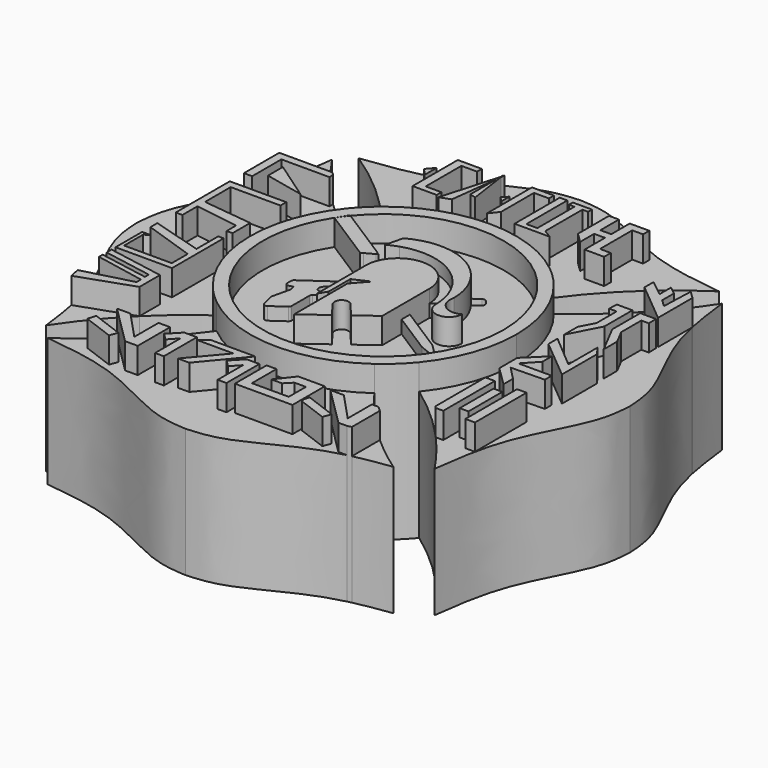
from build123d import *

# Parameters (mm, degrees)
F1_DEPTH = 25.4
F0_W     = 1.7295368016
F0_H     = 8.3469077945
F0_W_2   = 1.8799342215
F0_H_2   = 12.7083547413
F2_DEPTH = 27.94
F3_DEPTH = 30.48


with BuildPart() as f1:
    # F0 (on Top) → F1 (new body)
    with BuildSketch(Plane.XY):
        with BuildLine():
            Line((-9.5434431598, 6.2450544718), (-19.9389753342, 12.8866327357))
            ThreePointArc((-19.9389753342, 12.8866327357), (-6.7178785222, -22.7705544246), (23.7408517253, 0))
            ThreePointArc((23.7408517253, 0), (7.9342600231, 22.3757806239), (-18.437547291, 14.9560987738))
            Line((-18.437547291, 14.9560987738), (-8.1693225853, 8.3958556934))
            Line((-8.1693225853, 8.3958556934), (-7.0434035733, 7.6047051698))
            Line((-7.0434035733, 7.6047051698), (-7.338819981, 7.4440424639))
            Line((-7.338819981, 7.4440424639), (-5.8915200862, 6.5193802761))
            Line((-5.8915200862, 6.5193802761), (-5.6063739329, 6.337203889))
            ThreePointArc((-5.6063739329, 6.337203889), (-5.0978071301, 7.1900943467), (-4.4606007655, 7.951691599))
            Line((-4.4606007655, 7.951691599), (-6.14196317, 11.6369343908))
            ThreePointArc((-6.14196317, 11.6369343908), (-7.2015175666, 11.220879576), (-8.2185240178, 10.709552864))
            Line((-8.2185240178, 10.709552864), (-7.3757171631, 14.1661595553))
            ThreePointArc((-7.3757171631, 14.1661595553), (0.1389586127, 15.6738469109), (7.1075247354, 12.4828346309))
            Line((7.1075247354, 12.4828346309), (8.6497746395, 13.5536975911))
            ThreePointArc((8.6497746395, 13.5536975911), (9.0804497837, 13.6546140229), (9.4635845627, 13.4335417562))
            Line((9.4635845627, 13.4335417562), (10.0592304389, 12.6827814665))
            ThreePointArc((10.0592304389, 12.6827814665), (10.1854985957, 12.2403385238), (9.9619292605, 11.8381990487))
            Line((9.9619292605, 11.8381990487), (8.6400744323, 10.7894523474))
            ThreePointArc((8.6400744323, 10.7894523474), (10.4625836154, 7.3364011169), (11.1228358001, 3.4881327301))
            ThreePointArc((11.1228358001, 3.4881327301), (12.1514474693, 0.3059297611), (15.4842836782, 0.0290534226))
            ThreePointArc((15.4842836782, 0.0290534226), (12.8809521086, -2.5042646054), (10.2800289453, 0.0315260388))
            ThreePointArc((10.2800289453, 0.0315260388), (9.9497055154, 2.7308254028), (9.0397551795, 5.2935038865))
            Line((9.0397551795, 5.2935038865), (6.2511023134, 3.5722714383))
            Line((6.2511023134, 3.5722714383), (6.2511023134, -1.2383925481))
            Line((6.2511023134, -1.2383925481), (15.322001506, -7.0336790136))
            Line((15.322001506, -7.0336790136), (18.4107130058, -10.1001587223))
            Line((18.4107130058, -10.1001587223), (14.3876015009, -8.4962207364))
            Line((14.3876015009, -8.4962207364), (6.2511023134, -3.297910997))
            Line((6.2511023134, -3.297910997), (6.2511023134, -8.0626364797))
            Line((6.2511023134, -8.0626364797), (2.3747377821, -10.9250742877))
            Line((2.3747377821, -10.9250742877), (0, -8.0626364797))
            ThreePointArc((0, -8.0626364797), (-1.929433955, -7.8545272669), (-2.1375431679, -9.7839612218))
            Line((-2.1375431679, -9.7839612218), (0, -12.6786604524))
            Line((0, -12.6786604524), (-4.6690521418, -16.1264454246))
            Line((-4.6690521418, -16.1264454246), (-4.6690521418, -2.9718931764))
            Line((-4.6690521418, -2.9718931764), (-2.1375431679, -0.1181978878))
            Line((-2.1375431679, -0.1181978878), (-5.2554947324, -1.5450455321))
            Line((-5.2554947324, -1.5450455321), (-5.2554947324, -6.8612064933))
            Line((-5.2554947324, -6.8612064933), (-6.2511023134, -8.5651436821))
            Line((-6.2511023134, -8.5651436821), (-6.2511023134, -0.1554940756))
            Line((-6.2511023134, -0.1554940756), (-6.4565095615, -0.2993217791))
            ThreePointArc((-6.4565095615, -0.2993217791), (-6.6782063614, -0.5906114223), (-6.6898507105, -0.9564850842))
            Line((-6.6898507105, -0.9564850842), (-6.3532546104, -2.1378945595))
            ThreePointArc((-6.3532546104, -2.1378945595), (-6.3532532132, -2.467333183), (-6.5268767557, -2.7473058105))
            Line((-6.5268767557, -2.7473058105), (-9.5615380632, -5.5079116557))
            ThreePointArc((-9.5615380632, -5.5079116557), (-9.706817276, -5.7094900403), (-9.7581679001, -5.9526011428))
            Line((-9.7581679001, -5.9526011428), (-9.7581679001, -10.3816536972))
            ThreePointArc((-9.7581679001, -10.3816536972), (-9.8260924812, -10.6592385489), (-10.0145167408, -10.8740952384))
            Line((-10.0145167408, -10.8740952384), (-12.6287511028, -12.7046018453))
            ThreePointArc((-12.6287511028, -12.7046018453), (-13.1802241081, -12.7766817128), (-13.5548146017, -12.365585684))
            Line((-13.5548146017, -12.365585684), (-14.1468444432, -10.1226799809))
            ThreePointArc((-14.1468444432, -10.1226799809), (-14.1666748611, -9.9789061741), (-14.1514706229, -9.8345698165))
            Line((-14.1514706229, -9.8345698165), (-13.3251612392, -6.2401265362))
            ThreePointArc((-13.3251612392, -6.2401265362), (-13.3100853679, -6.0897110613), (-13.3330098084, -5.9402902896))
            Line((-13.3330098084, -5.9402902896), (-13.5587407276, -5.1502324641))
            Line((-13.5587407276, -5.1502324641), (-14.2865060916, -5.3581655283))
            ThreePointArc((-14.2865060916, -5.3581655283), (-14.813673449, -5.260071091), (-15.0528176735, -4.7801356982))
            Line((-15.0528176735, -4.7801356982), (-15.0528176735, -3.89823478))
            ThreePointArc((-15.0528176735, -3.89823478), (-14.9848930924, -3.6206499283), (-14.7964688328, -3.4057932388))
            Line((-14.7964688328, -3.4057932388), (-6.2511023134, 2.5777368149))
            Line((-6.2511023134, 2.5777368149), (-6.2511023134, 3.5722714383))
            ThreePointArc((-6.2511023134, 3.5722714383), (-6.228449268, 4.1039666977), (-6.1606543141, 4.6318083912))
            Line((-6.1606543141, 4.6318083912), (-7.9261528326, 5.7597637848))
            Line((-7.9261528326, 5.7597637848), (-9.0801320579, 6.4970269871))
            Line((-9.0801320579, 6.4970269871), (-9.5434431598, 6.2450544718))
        make_face()
    extrude(amount=F1_DEPTH)


with BuildPart() as f1b:
    # F0 (on Top) → F1, piece 2 (new body)
    with BuildSketch(Plane.XY):
        with BuildLine():
            ThreePointArc((-16.6267062797, 20.2924587669), (0, 26.2341617842), (16.6267062797, 20.2924587669))
            ThreePointArc((16.6267062797, 20.2924587669), (25.2329664201, 30.182800565), (35.5137959123, 38.318593055))
            add(Edge.make_bspline(
                [(35.5137959123, 38.318593055), (30.4620352986, 38.9509589957), (20.4597656889, 40.2030164693), (7.4866494732, 48.2293636919), (2.1728610161, 48.5746910392), (0, 48.7149081634)],
                knots=[0, 0, 0, 0, 0.3760666411, 0.7445958397, 0.9996624927, 0.9996624927, 0.9996624927, 0.9996624927], degree=3))
            add(Edge.make_bspline(
                [(-35.5137959123, 38.318593055), (-30.4620352986, 38.9509589957), (-20.4597656889, 40.2030164693), (-7.4866494732, 48.2293636919), (-2.1728610161, 48.5746910392), (0, 48.7149081634)],
                knots=[0, 0, 0, 0, 0.3760666411, 0.7445958397, 0.9996624927, 0.9996624927, 0.9996624927, 0.9996624927], degree=3))
            ThreePointArc((-35.5137959123, 38.318593055), (-25.2329664201, 30.182800565), (-16.6267062797, 20.2924587669))
        make_face()
        Polygon((-19.3263869733, 34.2127773911), (-18.0286001414, 35.7136428356), (-18.0286001414, 34.2127773911), (-18.0286001414, 32.7141773911), align=None, mode=Mode.SUBTRACT)
        Polygon((-15.4862534255, 39.7773832083), (-12.3972799629, 39.7773832083), (-12.3972799629, 38.6037752032), (-15.4862534255, 38.6037752032), (-15.4862534255, 34.2127773911), (-15.4862534255, 29.8217795789), (-12.3972799629, 29.8217795789), (-12.3972799629, 28.6481715739), (-17.1347092837, 28.6481715739), (-17.1347092837, 34.2127773911), (-17.1347092837, 38.6037752032), (-17.1347092837, 39.7773832083), align=None, mode=Mode.SUBTRACT)
        Polygon((-8.408809687, 39.7450013558), (-8.2768853754, 40.2063913643), (-8.3679740047, 39.4611965301), (-7.2505346718, 31.6950798014), (-8.4751974791, 32.04524516), (-8.4751974791, 38.5840027483), (-9.649637936, 28.9759213881), (-11.7087768862, 28.2037480728), (-8.4751974791, 39.5128177376), (-8.4751974791, 40.2063913643), align=None, mode=Mode.SUBTRACT)
        Polygon((-4.2724665254, 34.2127773911), (-3.2887738198, 35.2003201842), (-3.2887738198, 34.2127773911), (-3.2887738198, 33.2252345979), align=None, mode=Mode.SUBTRACT)
        Polygon((-2.5195907801, 38.5379008949), (-2.5195907801, 39.7773832083), (-1.133499667, 39.7773832083), (1.8175337464, 39.7773832083), (1.8175337464, 38.5379008949), (-1.133499667, 38.5379008949), (-1.133499667, 34.2127773911), (-1.133499667, 30.4379425943), (-2.5195907801, 28.6481715739), (-2.5195907801, 34.2127773911), align=None, mode=Mode.SUBTRACT)
        Polygon((2.9608625919, 29.696483165), (2.9608625919, 39.7773832083), (4.4449735433, 39.7773832083), (4.4449735433, 29.696483165), (6.6135358065, 29.696483165), (6.6135358065, 38.8293154538), (5.534986034, 38.8293154538), (5.534986034, 39.7773832083), (6.6135358065, 39.7773832083), (8.1796292216, 39.7773832083), (9.3080047518, 39.7773832083), (9.3080047518, 38.8293154538), (8.1796292216, 38.8293154538), (8.1796292216, 29.696483165), (9.8721999675, 28.6481715739), (8.1796292216, 28.6481715739), (6.6135358065, 28.6481715739), (4.4449735433, 28.6481715739), (2.9608625919, 28.6481715739), align=None, mode=Mode.SUBTRACT)
        Polygon((12.6640442759, 35.2156497538), (12.6640442759, 39.7773832083), (14.6210510284, 39.7773832083), (14.6210510284, 35.2156497538), (16.7559627444, 35.2156497538), (16.7559627444, 38.2401160896), (16.7559627444, 39.7773832083), (18.4757579118, 39.7773832083), (20.6106770784, 39.7773832083), (20.6106770784, 38.2401160896), (18.4757579118, 38.2401160896), (18.4757579118, 30.2934832871), (20.6106770784, 30.2934832871), (20.6106770784, 28.6481715739), (18.4757579118, 28.6481715739), (16.7559627444, 28.6481715739), (16.7559627444, 30.2934832871), (16.7559627444, 33.6737670004), (14.6210510284, 33.6737670004), (14.6210510284, 30.2341803908), (12.6640442759, 32.1318842471), (12.6640442759, 33.6737670004), align=None, mode=Mode.SUBTRACT)
    extrude(amount=F1_DEPTH)


with BuildPart() as f1c:
    # F0 (on Top) → F1, piece 3 (new body)
    with BuildSketch(Plane.XY):
        with BuildLine():
            ThreePointArc((-20.3356751091, -16.5738215983), (-26.2341617842, 0), (-20.3356751091, 16.5738215983))
            ThreePointArc((-20.3356751091, 16.5738215983), (-24.8128492339, 20.0548614406), (-28.9973442697, 23.8827496081))
            Line((-28.9973442697, 23.8827496081), (-28.9973442697, 22.9817052072))
            Line((-28.9973442697, 22.9817052072), (-38.4649895132, 22.9817052072))
            Line((-38.4649895132, 22.9817052072), (-38.4649895132, 15.7891533872))
            Line((-38.4649895132, 15.7891533872), (-40.0955304503, 15.7891533872))
            Line((-40.0955304503, 15.7891533872), (-40.0955304503, 22.9817052072))
            Line((-40.0955304503, 22.9817052072), (-40.0955304503, 24.4979433319))
            Line((-40.0955304503, 24.4979433319), (-38.4649895132, 24.4979433319))
            Line((-38.4649895132, 24.4979433319), (-29.6104829395, 24.4979433319))
            ThreePointArc((-29.6104829395, 24.4979433319), (-34.2813337884, 29.7377471459), (-38.4109179846, 35.4139189217))
            add(Edge.make_bspline(
                [(-38.4109179846, 35.4139189217), (-39.03013029, 30.3605291582), (-40.2561441291, 20.3550339017), (-48.2486906125, 7.3610662707), (-48.5801831474, 2.0463968131), (-48.7147430824, -0.1268218738)],
                knots=[0, 0, 0, 0, 0.3760666411, 0.7445958397, 0.9996624927, 0.9996624927, 0.9996624927, 0.9996624927], degree=3))
            add(Edge.make_bspline(
                [(-39.9029320846, -25.4186008721), (-40.291396554, -23.7892445191), (-42.1955076013, -17.2767114258), (-48.2097099, -7.6121819354), (-48.5688697193, -2.2993104926), (-48.7147430824, -0.1268218738)],
                knots=[0.2537440472, 0.2537440472, 0.2537440472, 0.2537440472, 0.3760666411, 0.7445958397, 0.9996624927, 0.9996624927, 0.9996624927, 0.9996624927], degree=3))
            Line((-39.9029320846, -25.4186008721), (-30.3178839386, -22.8653751711))
            Line((-30.3178839386, -22.8653751711), (-30.3178839386, -21.7938103179))
            Line((-30.3178839386, -21.7938103179), (-40.0955304503, -19.896445463))
            Line((-40.0955304503, -19.896445463), (-40.0955304503, -18.9949036293))
            Line((-40.0955304503, -18.9949036293), (-30.4072680445, -20.7157038549))
            Line((-30.4072680445, -20.7157038549), (-30.4072680445, -19.7573721554))
            Line((-30.4072680445, -19.7573721554), (-40.0955304503, -18.0365719298))
            Line((-40.0955304503, -18.0365719298), (-40.0955304503, -16.8199502901))
            Line((-40.0955304503, -16.8199502901), (-28.9663188159, -18.7966876129))
            Line((-28.9663188159, -18.7966876129), (-28.9663188159, -23.8520183066))
            ThreePointArc((-28.9663188159, -23.8520183066), (-24.7961597103, -20.0407828139), (-20.3356751091, -16.5738215983))
        make_face()
        Polygon((-39.4113734365, -15.825872908), (-40.0955304503, -15.825872908), (-40.0955304503, -14.5612113575), (-40.0955304503, -9.270174096), (-39.4113734365, -9.270174096), (-38.4338088334, -9.270174096), (-39.4113734365, -9.9116172462), (-39.4113734365, -14.5612113575), (-30.0203710794, -14.5612113575), (-30.0203710794, -10.6391225128), (-40.0955304503, -7.2353460291), (-40.0955304503, -5.5188663701), (-30.0203710794, -8.5023660779), (-30.0203710794, -3.1159945229), (-28.9663188159, -3.1159945229), (-28.9663188159, -15.825872908), (-30.0203710794, -15.825872908), align=None, mode=Mode.SUBTRACT)
        Polygon((-28.9663188159, 3.4426770708), (-28.9663188159, -0.9187736014), (-30.131842941, -0.9187736014), (-30.131842941, 1.4352052734), (-38.7795418501, 2.7206736781), (-38.7795418501, -0.9939648608), (-40.0955304503, -0.9939648608), (-40.0955304503, 2.9162935516), (-40.0955304503, 4.7210327884), (-40.0955304503, 10.8872077962), (-40.0955304503, 12.3159609338), (-38.7795418501, 12.3159609338), (-28.9663188159, 12.3159609338), (-28.9663188159, 10.8872077962), (-38.7795418501, 10.8872077962), (-38.7795418501, 4.569871897), align=None, mode=Mode.SUBTRACT)
        Polygon((-36.6944596171, 21.1480132839), (-28.9663188159, 15.7891533872), (-36.6944596171, 17.4804798862), align=None, mode=Mode.SUBTRACT)
    extrude(amount=F1_DEPTH)


with BuildPart() as f1d:
    # F0 (on Top) → F1, piece 4 (new body)
    with BuildSketch(Plane.XY):
        with BuildLine():
            ThreePointArc((-38.2774990271, -35.2107815006), (-33.9169619408, -29.2895345009), (-28.9663188159, -23.8520183066))
            Line((-28.9663188159, -23.8520183066), (-39.4506689096, -27.5013607093))
            add(Edge.make_bspline(
                [(-38.2774990271, -35.2107815006), (-38.6070013497, -32.6363948006), (-38.9448289643, -30.0626275198), (-39.4506689096, -27.5013607093)],
                knots=[0.0099947999, 0.0099947999, 0.0099947999, 0.0099947999, 0.2017045948, 0.2017045948, 0.2017045948, 0.2017045948], degree=3))
        make_face()
    extrude(amount=F1_DEPTH)


with BuildPart() as f1e:
    # F0 (on Top) → F1, piece 5 (new body)
    with BuildSketch(Plane.XY):
        with BuildLine():
            ThreePointArc((32.9154281705, -38.6499835796), (29.2232816096, -35.9310098419), (25.7146905784, -32.9789676014))
            Line((25.7146905784, -32.9789676014), (25.7146905784, -39.8764228197))
            add(Edge.make_bspline(
                [(32.9154281705, -38.6499835796), (30.5086862404, -38.968303093), (28.1053161528, -39.3335941205), (25.7146905784, -39.8764228197)],
                knots=[0.0644873221, 0.0644873221, 0.0644873221, 0.0644873221, 0.2437419627, 0.2437419627, 0.2437419627, 0.2437419627], degree=3))
        make_face()
    extrude(amount=F1_DEPTH)


with BuildPart() as f1f:
    # F0 (on Top) → F1, piece 6 (new body)
    with BuildSketch(Plane.XY):
        with BuildLine():
            ThreePointArc((20.3356751091, 16.5738215983), (24.7155885558, 8.7960745141), (26.2341617842, 0))
            ThreePointArc((26.2341617842, 0), (24.7155885558, -8.7960745141), (20.3356751091, -16.5738215983))
            ThreePointArc((20.3356751091, -16.5738215983), (26.1532390663, -21.2149239813), (31.4520317335, -26.4405031831))
            Line((31.4520317335, -26.4405031831), (31.4520317335, -14.1721851071))
            Line((31.4520317335, -14.1721851071), (33.331965955, -14.1721851071))
            Line((33.331965955, -14.1721851071), (33.331965955, -26.8805398485))
            Line((33.331965955, -26.8805398485), (31.8503183646, -26.8805398485))
            ThreePointArc((31.8503183646, -26.8805398485), (35.2187146617, -30.9262204528), (38.2774990271, -35.2107815006))
            add(Edge.make_bspline(
                [(38.2774990271, -35.2107815006), (38.9066871287, -30.2949634039), (40.2302025567, -20.4348606893), (48.2097099, -7.6121819354), (48.5688697193, -2.2993104926), (48.7147430824, -0.1268218738)],
                knots=[0.0099947999, 0.0099947999, 0.0099947999, 0.0099947999, 0.3760666411, 0.7445958397, 0.9996624927, 0.9996624927, 0.9996624927, 0.9996624927], degree=3))
            add(Edge.make_bspline(
                [(39.7814951576, 26.3571659412), (40.2034923324, 24.3406530333), (42.055934891, 17.4290048881), (48.2486906125, 7.3610662707), (48.5801831474, 2.0463968131), (48.7147430824, -0.1268218738)],
                knots=[0.2251076454, 0.2251076454, 0.2251076454, 0.2251076454, 0.3760666411, 0.7445958397, 0.9996624927, 0.9996624927, 0.9996624927, 0.9996624927], degree=3))
            Line((39.7814951576, 26.3571659412), (39.7814951576, 17.9630034724))
            Line((39.7814951576, 17.9630034724), (31.8105734624, 24.5803744653))
            Line((31.8105734624, 24.5803744653), (31.8105734624, 26.8362947861))
            ThreePointArc((31.8105734624, 26.8362947861), (26.3526094356, 21.3925542151), (20.3356751091, 16.5738215983))
        make_face()
        with Locations((35.6254874933, -20.4511656305)):
            Rectangle(F0_W, F0_H, mode=Mode.SUBTRACT)
        with Locations((38.6333837379, -20.5263624778)):
            Rectangle(F0_W_2, F0_H_2, mode=Mode.SUBTRACT)
        Polygon((35.0392975564, -14.1721851071), (31.2011621612, -10.4123166641), (31.2011621612, -6.0132703623), (35.0392975564, -2.2534056445), (35.0392975564, -4.58452095), (32.4795174132, -7.3292254349), (39.0592871885, -7.3292254349), (39.0592871885, -9.0211666068), (32.4419185239, -9.1715603014), (35.0392975564, -11.8410660764), align=None, mode=Mode.SUBTRACT)
        Polygon((32.0551983751, 0.6040969053), (32.0551983751, 2.8600209514), (38.7086647675, -2.7797854384), (38.7086647675, 4.3910338258), (40.0261200704, 2.6344248215), (40.0261200704, -6.0132703623), align=None, mode=Mode.SUBTRACT)
        Polygon((32.0020235814, 15.6471395055), (32.0551983751, 17.4550079862), (35.1392060257, 17.4550079862), (35.1392060257, 10.5691590468), (32.0020235814, 4.534069554), (32.0020235814, 7.8573563257), (33.4837888663, 10.7078714808), (33.4837888663, 15.6471395055), align=None, mode=Mode.SUBTRACT)
        Polygon((36.6812079884, 17.4550079862), (39.765215639, 17.4550079862), (39.8183904327, 15.6471395055), (38.3366251478, 15.6471395055), (38.3366251478, 10.7078714808), (39.8183904327, 7.8573563257), (39.8183904327, 4.534069554), (36.6812079884, 10.5691590468), align=None, mode=Mode.SUBTRACT)
    extrude(amount=F1_DEPTH)


with BuildPart() as f1g:
    # F0 (on Top) → F1, piece 7 (new body)
    with BuildSketch(Plane.XY):
        with BuildLine():
            ThreePointArc((38.4109179846, 35.4139189217), (35.2747322236, 30.998921866), (31.8105734624, 26.8362947861))
            Line((31.8105734624, 26.8362947861), (35.0440621115, 24.2795852134))
            Line((35.0440621115, 24.2795852134), (35.0440621115, 27.0618871907))
            Line((35.0440621115, 27.0618871907), (36.6232052185, 25.8587283203))
            Line((36.6232052185, 25.8587283203), (36.6232052185, 22.9260326484))
            Line((36.6232052185, 22.9260326484), (38.051958356, 21.5724800835))
            Line((38.051958356, 21.5724800835), (38.2775470354, 27.8890580991))
            Line((38.2775470354, 27.8890580991), (39.7547533603, 26.4857115416))
            add(Edge.make_bspline(
                [(38.4109179846, 35.4139189217), (38.7762876513, 32.4321381698), (39.141657318, 29.4503574178), (39.7547533603, 26.4857115416)],
                knots=[0, 0, 0, 0, 0.2219002144, 0.2219002144, 0.2219002144, 0.2219002144], degree=3))
        make_face()
    extrude(amount=F1_DEPTH)


with BuildPart() as f1h:
    # F0 (on Top) → F1, piece 8 (new body)
    with BuildSketch(Plane.XY):
        with BuildLine():
            Line((15.4275732894, -21.4819234181), (15.3033273432, -21.3082006924))
            ThreePointArc((15.3033273432, -21.3082006924), (-0.8341258102, -26.2208977468), (-16.6267062797, -20.2924587669))
            ThreePointArc((-16.6267062797, -20.2924587669), (-21.4138621586, -26.2442472283), (-26.8137526248, -31.6462681696))
            Line((-26.8137526248, -31.6462681696), (-24.5010119255, -31.6462681696))
            Line((-24.5010119255, -31.6462681696), (-19.1837486203, -37.3357331448))
            Line((-19.1837486203, -37.3357331448), (-19.1837486203, -31.3804053769))
            Line((-19.1837486203, -31.3804053769), (-16.8973293479, -31.3804053769))
            Line((-16.8973293479, -31.3804053769), (-16.8973293479, -39.3562905558))
            Line((-16.8973293479, -39.3562905558), (-19.3964403446, -39.3562905558))
            Line((-19.3964403446, -39.3562905558), (-26.995701496, -31.8090835655))
            ThreePointArc((-26.995701496, -31.8090835655), (-31.1314824425, -35.2251398118), (-35.5137959123, -38.318593055))
            add(Edge.make_bspline(
                [(-35.5137959123, -38.318593055), (-30.4620352986, -38.9509589957), (-20.4597656889, -40.2030164693), (-7.4866494732, -48.2293636919), (-2.1728610161, -48.5746910392), (0, -48.7149081634)],
                knots=[0, 0, 0, 0, 0.3760666411, 0.7445958397, 0.9996624927, 0.9996624927, 0.9996624927, 0.9996624927], degree=3))
            add(Edge.make_bspline(
                [(24.9123165873, -40.065583976), (23.4170540138, -40.4314467219), (17.0361868562, -42.3211530834), (7.4866494732, -48.2293636919), (2.1728610161, -48.5746910392), (0, -48.7149081634)],
                knots=[0.263808887, 0.263808887, 0.263808887, 0.263808887, 0.3760666411, 0.7445958397, 0.9996624927, 0.9996624927, 0.9996624927, 0.9996624927], degree=3))
            Line((24.9123165873, -40.065583976), (23.2155795817, -40.065583976))
            Line((23.2155795817, -40.065583976), (15.4523800735, -32.3555615898))
            Line((15.4523800735, -32.3555615898), (18.1110080008, -32.3555615898))
            Line((18.1110080008, -32.3555615898), (23.428271306, -38.045026565))
            Line((23.428271306, -38.045026565), (23.428271306, -32.0896987971))
            Line((23.428271306, -32.0896987971), (24.7429571153, -32.0896987971))
            ThreePointArc((24.7429571153, -32.0896987971), (19.8204675296, -27.0183473246), (15.4275732894, -21.4819234181))
        make_face()
        Polygon((-28.6157503724, -37.1411293745), (-28.1167414363, -35.5278660611), (-21.948726135, -37.8142862648), (-22.5347847712, -39.3952811446), align=None, mode=Mode.SUBTRACT)
        Polygon((-14.9043574929, -35.0307189029), (-16.2579119205, -33.6771644752), (-14.0771865845, -31.4212441545), (-11.5956738591, -31.4212441545), (-11.5956738591, -39.5425595444), (-13.325214386, -39.5425595444), (-13.325214386, -33.301178376), align=None, mode=Mode.SUBTRACT)
        Polygon((-7.1978791382, -38.7864187358), (-9.4538031842, -38.7864187358), (-3.8139967944, -32.1329523434), (-10.9848160587, -32.1329523434), (-9.2282070543, -30.8154970406), (-0.5805118706, -30.8154970406), align=None, mode=Mode.SUBTRACT)
        Polygon((-1.8102118192, -35.9862744808), (-3.1637662469, -34.6327200532), (-0.9830409108, -32.3767997324), (1.4984718146, -32.3767997324), (1.4984718146, -40.4981151223), (-0.2310687123, -40.4981151223), (-0.2310687123, -34.256733954), align=None, mode=Mode.SUBTRACT)
        Polygon((14.1554349825, -37.335851355), (14.49527849, -36.2371594813), (20.6632937913, -38.523579685), (20.0772351551, -40.1045745648), (14.4032866999, -38.001299889), align=None, mode=Mode.SUBTRACT)
        Polygon((2.6414692402, -39.8631114613), (2.6414692402, -32.0426062781), (4.5965984464, -32.0426062781), (4.5965984464, -38.0959943969), (11.8531472981, -38.0959943969), (11.8531472981, -33.8699700235), (9.5842894095, -33.8699700235), (8.2436725497, -35.2384937096), (6.1381459236, -35.2384937096), (8.7700523436, -31.8922107208), (13.9962695539, -31.8922107208), (13.9962695539, -39.8631114613), align=None, mode=Mode.SUBTRACT)
    extrude(amount=F1_DEPTH)


with BuildPart() as f1i:
    # F0 (on Top) → F1, piece 9 (new body)
    with BuildSketch(Plane.XY):
        with BuildLine():
            add(Edge.make_bspline(
                [(-7.2091906331, -1.5097639989), (-8.2920949454, 0.046911573), (-9.9321888534, -2.2490228676), (-11.5722827613, -4.5449573081), (-8.8492845411, -3.8056984394), (-6.1262863209, -3.0664395708), (-7.2091906331, -1.5097639989)],
                knots=[0, 0, 0, 2.0943951024, 2.0943951024, 4.1887902048, 4.1887902048, 6.2831853072, 6.2831853072, 6.2831853072], degree=2, weights=[1, 0.5, 1, 0.5, 1, 0.5, 1]))
        make_face()
    extrude(amount=F1_DEPTH)


with BuildPart() as f2:
    # F0 (on Top) → F2 (new body)
    with BuildSketch(Plane.XY):
        with BuildLine():
            Line((-6.2511023134, -0.1554940756), (-6.2511023134, 2.5777368149))
            Line((-6.2511023134, 2.5777368149), (-14.7964688328, -3.4057932388))
            ThreePointArc((-14.7964688328, -3.4057932388), (-14.9848930924, -3.6206499283), (-15.0528176735, -3.89823478))
            Line((-15.0528176735, -3.89823478), (-15.0528176735, -4.7801356982))
            ThreePointArc((-15.0528176735, -4.7801356982), (-14.813673449, -5.260071091), (-14.2865060916, -5.3581655283))
            Line((-14.2865060916, -5.3581655283), (-13.5587407276, -5.1502324641))
            Line((-13.5587407276, -5.1502324641), (-13.3330098084, -5.9402902896))
            ThreePointArc((-13.3330098084, -5.9402902896), (-13.3100853679, -6.0897110613), (-13.3251612392, -6.2401265362))
            Line((-13.3251612392, -6.2401265362), (-14.1514706229, -9.8345698165))
            ThreePointArc((-14.1514706229, -9.8345698165), (-14.1666748611, -9.9789061741), (-14.1468444432, -10.1226799809))
            Line((-14.1468444432, -10.1226799809), (-13.5548146017, -12.365585684))
            ThreePointArc((-13.5548146017, -12.365585684), (-13.1802241081, -12.7766817128), (-12.6287511028, -12.7046018453))
            Line((-12.6287511028, -12.7046018453), (-10.0145167408, -10.8740952384))
            ThreePointArc((-10.0145167408, -10.8740952384), (-9.8260924812, -10.6592385489), (-9.7581679001, -10.3816536972))
            Line((-9.7581679001, -10.3816536972), (-9.7581679001, -5.9526011428))
            ThreePointArc((-9.7581679001, -5.9526011428), (-9.706817276, -5.7094900403), (-9.5615380632, -5.5079116557))
            Line((-9.5615380632, -5.5079116557), (-6.5268767557, -2.7473058105))
            ThreePointArc((-6.5268767557, -2.7473058105), (-6.3532532132, -2.467333183), (-6.3532546104, -2.1378945595))
            Line((-6.3532546104, -2.1378945595), (-6.6898507105, -0.9564850842))
            ThreePointArc((-6.6898507105, -0.9564850842), (-6.6782063614, -0.5906114223), (-6.4565095615, -0.2993217791))
            Line((-6.4565095615, -0.2993217791), (-6.2511023134, -0.1554940756))
        make_face()
        with BuildLine():
            add(Edge.make_bspline(
                [(-7.2091906331, -1.5097639989), (-8.2920949454, 0.046911573), (-9.9321888534, -2.2490228676), (-11.5722827613, -4.5449573081), (-8.8492845411, -3.8056984394), (-6.1262863209, -3.0664395708), (-7.2091906331, -1.5097639989)],
                knots=[0, 0, 0, 2.0943951024, 2.0943951024, 4.1887902048, 4.1887902048, 6.2831853072, 6.2831853072, 6.2831853072], degree=2, weights=[1, 0.5, 1, 0.5, 1, 0.5, 1]))
        make_face(mode=Mode.SUBTRACT)
    extrude(amount=F2_DEPTH)


with BuildPart() as f2b:
    # F0 (on Top) → F2, piece 2 (new body)
    with BuildSketch(Plane.XY):
        with BuildLine():
            Line((-7.338819981, 7.4440424639), (-9.0801320579, 6.4970269871))
            Line((-9.0801320579, 6.4970269871), (-7.9261528326, 5.7597637848))
            Line((-7.9261528326, 5.7597637848), (-6.1606543141, 4.6318083912))
            ThreePointArc((-6.1606543141, 4.6318083912), (-5.9449837588, 5.5044847392), (-5.6063739329, 6.337203889))
            Line((-5.6063739329, 6.337203889), (-5.8915200862, 6.5193802761))
            Line((-5.8915200862, 6.5193802761), (-7.338819981, 7.4440424639))
        make_face()
    extrude(amount=F2_DEPTH)


with BuildPart() as f2c:
    # F0 (on Top) → F2, piece 3 (new body)
    with BuildSketch(Plane.XY):
        Polygon((15.322001506, -7.0336790136), (6.2511023134, -1.2383925481), (6.2511023134, -3.297910997), (14.3876015009, -8.4962207364), (18.4107130058, -10.1001587223), align=None)
    extrude(amount=F2_DEPTH)


with BuildPart() as f2d:
    # F0 (on Top) → F2, piece 4 (new body)
    with BuildSketch(Plane.XY):
        with BuildLine():
            Line((-6.14196317, 11.6369343908), (-4.4606007655, 7.951691599))
            ThreePointArc((-4.4606007655, 7.951691599), (2.3656509007, 9.3584598165), (6.2511023134, 3.5722714383))
            Line((6.2511023134, 3.5722714383), (9.0397551795, 5.2935038865))
            ThreePointArc((9.0397551795, 5.2935038865), (2.6501831797, 11.3402571067), (-6.14196317, 11.6369343908))
        make_face()
    extrude(amount=F2_DEPTH)


with BuildPart() as f3:
    # F0 (on Top) → F3 (new body)
    with BuildSketch(Plane.XY):
        with BuildLine():
            ThreePointArc((-18.437547291, 14.9560987738), (-19.2161402113, 13.9415923057), (-19.9389753342, 12.8866327357))
            Line((-19.9389753342, 12.8866327357), (-9.5434431598, 6.2450544718))
            Line((-9.5434431598, 6.2450544718), (-8.1693225853, 8.3958556934))
            Line((-8.1693225853, 8.3958556934), (-18.437547291, 14.9560987738))
        make_face()
        Polygon((-8.1693225853, 8.3958556934), (-9.5434431598, 6.2450544718), (-9.0801320579, 6.4970269871), (-7.338819981, 7.4440424639), (-7.0434035733, 7.6047051698), align=None)
    extrude(amount=F3_DEPTH)


with BuildPart() as f3b:
    # F0 (on Top) → F3, piece 2 (new body)
    with BuildSketch(Plane.XY):
        with BuildLine():
            ThreePointArc((-5.6063739329, 6.337203889), (-5.9449837588, 5.5044847392), (-6.1606543141, 4.6318083912))
            ThreePointArc((-6.1606543141, 4.6318083912), (-6.228449268, 4.1039666977), (-6.2511023134, 3.5722714383))
            Line((-6.2511023134, 3.5722714383), (-6.2511023134, 2.5777368149))
            Line((-6.2511023134, 2.5777368149), (-6.2511023134, -0.1554940756))
            Line((-6.2511023134, -0.1554940756), (-6.2511023134, -8.5651436821))
            Line((-6.2511023134, -8.5651436821), (-5.2554947324, -6.8612064933))
            Line((-5.2554947324, -6.8612064933), (-5.2554947324, -1.5450455321))
            Line((-5.2554947324, -1.5450455321), (-2.1375431679, -0.1181978878))
            Line((-2.1375431679, -0.1181978878), (-4.6690521418, -2.9718931764))
            Line((-4.6690521418, -2.9718931764), (-4.6690521418, -16.1264454246))
            Line((-4.6690521418, -16.1264454246), (0, -12.6786604524))
            Line((0, -12.6786604524), (-2.1375431679, -9.7839612218))
            ThreePointArc((-2.1375431679, -9.7839612218), (-1.929433955, -7.8545272669), (0, -8.0626364797))
            Line((0, -8.0626364797), (2.3747377821, -10.9250742877))
            Line((2.3747377821, -10.9250742877), (6.2511023134, -8.0626364797))
            Line((6.2511023134, -8.0626364797), (6.2511023134, -3.297910997))
            Line((6.2511023134, -3.297910997), (6.2511023134, -1.2383925481))
            Line((6.2511023134, -1.2383925481), (6.2511023134, 3.5722714383))
            ThreePointArc((6.2511023134, 3.5722714383), (2.3656509007, 9.3584598165), (-4.4606007655, 7.951691599))
            ThreePointArc((-4.4606007655, 7.951691599), (-5.0978071301, 7.1900943467), (-5.6063739329, 6.337203889))
        make_face()
    extrude(amount=F3_DEPTH)


with BuildPart() as f3c:
    # F0 (on Top) → F3, piece 3 (new body)
    with BuildSketch(Plane.XY):
        with BuildLine():
            ThreePointArc((-8.2185240178, 10.709552864), (-7.2015175666, 11.220879576), (-6.14196317, 11.6369343908))
            ThreePointArc((-6.14196317, 11.6369343908), (2.6501831797, 11.3402571067), (9.0397551795, 5.2935038865))
            ThreePointArc((9.0397551795, 5.2935038865), (9.9497055154, 2.7308254028), (10.2800289453, 0.0315260388))
            ThreePointArc((10.2800289453, 0.0315260388), (12.8809521086, -2.5042646054), (15.4842836782, 0.0290534226))
            ThreePointArc((15.4842836782, 0.0290534226), (12.1514474693, 0.3059297611), (11.1228358001, 3.4881327301))
            ThreePointArc((11.1228358001, 3.4881327301), (10.4625836154, 7.3364011169), (8.6400744323, 10.7894523474))
            ThreePointArc((8.6400744323, 10.7894523474), (7.9128114811, 11.6714501485), (7.1075247354, 12.4828346309))
            ThreePointArc((7.1075247354, 12.4828346309), (0.1389586127, 15.6738469109), (-7.3757171631, 14.1661595553))
            Line((-7.3757171631, 14.1661595553), (-8.2185240178, 10.709552864))
        make_face()
    extrude(amount=F3_DEPTH)


with BuildPart() as f3d:
    # F0 (on Top) → F3, piece 4 (new body)
    with BuildSketch(Plane.XY):
        with BuildLine():
            Line((-28.9973442697, 22.9817052072), (-28.9973442697, 23.8827496081))
            ThreePointArc((-28.9973442697, 23.8827496081), (-29.3048560825, 24.1894071405), (-29.6104829395, 24.4979433319))
            Line((-29.6104829395, 24.4979433319), (-38.4649895132, 24.4979433319))
            Line((-38.4649895132, 24.4979433319), (-40.0955304503, 24.4979433319))
            Line((-40.0955304503, 24.4979433319), (-40.0955304503, 22.9817052072))
            Line((-40.0955304503, 22.9817052072), (-40.0955304503, 15.7891533872))
            Line((-40.0955304503, 15.7891533872), (-38.4649895132, 15.7891533872))
            Line((-38.4649895132, 15.7891533872), (-38.4649895132, 22.9817052072))
            Line((-38.4649895132, 22.9817052072), (-28.9973442697, 22.9817052072))
        make_face()
    extrude(amount=F3_DEPTH)


with BuildPart() as f3e:
    # F0 (on Top) → F3, piece 5 (new body)
    with BuildSketch(Plane.XY):
        Polygon((-36.6944596171, 17.4804798862), (-28.9663188159, 15.7891533872), (-36.6944596171, 21.1480132839), align=None)
    extrude(amount=F3_DEPTH)


with BuildPart() as f3f:
    # F0 (on Top) → F3, piece 6 (new body)
    with BuildSketch(Plane.XY):
        Polygon((-40.0955304503, -14.5612113575), (-40.0955304503, -15.825872908), (-39.4113734365, -15.825872908), (-30.0203710794, -15.825872908), (-28.9663188159, -15.825872908), (-28.9663188159, -3.1159945229), (-30.0203710794, -3.1159945229), (-30.0203710794, -8.5023660779), (-40.0955304503, -5.5188663701), (-40.0955304503, -7.2353460291), (-30.0203710794, -10.6391225128), (-30.0203710794, -14.5612113575), (-39.4113734365, -14.5612113575), (-39.4113734365, -9.9116172462), (-38.4338088334, -9.270174096), (-39.4113734365, -9.270174096), (-40.0955304503, -9.270174096), align=None)
    extrude(amount=F3_DEPTH)


with BuildPart() as f3g:
    # F0 (on Top) → F3, piece 7 (new body)
    with BuildSketch(Plane.XY):
        with BuildLine():
            Line((-39.4506689096, -27.5013607093), (-28.9663188159, -23.8520183066))
            Line((-28.9663188159, -23.8520183066), (-28.9663188159, -18.7966876129))
            Line((-28.9663188159, -18.7966876129), (-40.0955304503, -16.8199502901))
            Line((-40.0955304503, -16.8199502901), (-40.0955304503, -18.0365719298))
            Line((-40.0955304503, -18.0365719298), (-30.4072680445, -19.7573721554))
            Line((-30.4072680445, -19.7573721554), (-30.4072680445, -20.7157038549))
            Line((-30.4072680445, -20.7157038549), (-40.0955304503, -18.9949036293))
            Line((-40.0955304503, -18.9949036293), (-40.0955304503, -19.896445463))
            Line((-40.0955304503, -19.896445463), (-30.3178839386, -21.7938103179))
            Line((-30.3178839386, -21.7938103179), (-30.3178839386, -22.8653751711))
            Line((-30.3178839386, -22.8653751711), (-39.9029320846, -25.4186008721))
            add(Edge.make_bspline(
                [(-39.4506689096, -27.5013607093), (-39.5879787104, -26.8061071244), (-39.7376684354, -26.1117746319), (-39.9029320846, -25.4186008721)],
                knots=[0.2017045948, 0.2017045948, 0.2017045948, 0.2017045948, 0.2537440472, 0.2537440472, 0.2537440472, 0.2537440472], degree=3))
        make_face()
    extrude(amount=F3_DEPTH)


with BuildPart() as f3h:
    # F0 (on Top) → F3, piece 8 (new body)
    with BuildSketch(Plane.XY):
        Polygon((-30.131842941, -0.9187736014), (-28.9663188159, -0.9187736014), (-28.9663188159, 3.4426770708), (-38.7795418501, 4.569871897), (-38.7795418501, 10.8872077962), (-28.9663188159, 10.8872077962), (-28.9663188159, 12.3159609338), (-38.7795418501, 12.3159609338), (-40.0955304503, 12.3159609338), (-40.0955304503, 10.8872077962), (-40.0955304503, 4.7210327884), (-40.0955304503, 2.9162935516), (-40.0955304503, -0.9939648608), (-38.7795418501, -0.9939648608), (-38.7795418501, 2.7206736781), (-30.131842941, 1.4352052734), align=None)
    extrude(amount=F3_DEPTH)


with BuildPart() as f3i:
    # F0 (on Top) → F3, piece 9 (new body)
    with BuildSketch(Plane.XY):
        Polygon((-12.3972799629, 38.6037752032), (-12.3972799629, 39.7773832083), (-15.4862534255, 39.7773832083), (-17.1347092837, 39.7773832083), (-17.1347092837, 38.6037752032), (-17.1347092837, 34.2127773911), (-17.1347092837, 28.6481715739), (-12.3972799629, 28.6481715739), (-12.3972799629, 29.8217795789), (-15.4862534255, 29.8217795789), (-15.4862534255, 34.2127773911), (-15.4862534255, 38.6037752032), align=None)
    extrude(amount=F3_DEPTH)


with BuildPart() as f3j:
    # F0 (on Top) → F3, piece 10 (new body)
    with BuildSketch(Plane.XY):
        Polygon((-18.0286001414, 34.2127773911), (-18.0286001414, 35.7136428356), (-19.3263869733, 34.2127773911), (-18.0286001414, 32.7141773911), align=None)
    extrude(amount=F3_DEPTH)


with BuildPart() as f3k:
    # F0 (on Top) → F3, piece 11 (new body)
    with BuildSketch(Plane.XY):
        Polygon((-8.3679740047, 39.4611965301), (-8.2768853754, 40.2063913643), (-8.408809687, 39.7450013558), (-8.4751974791, 40.2063913643), (-8.4751974791, 39.5128177376), (-11.7087768862, 28.2037480728), (-9.649637936, 28.9759213881), (-8.4751974791, 38.5840027483), (-8.4751974791, 32.04524516), (-7.2505346718, 31.6950798014), align=None)
    extrude(amount=F3_DEPTH)


with BuildPart() as f3l:
    # F0 (on Top) → F3, piece 12 (new body)
    with BuildSketch(Plane.XY):
        Polygon((-1.133499667, 39.7773832083), (-2.5195907801, 39.7773832083), (-2.5195907801, 38.5379008949), (-2.5195907801, 34.2127773911), (-2.5195907801, 28.6481715739), (-1.133499667, 30.4379425943), (-1.133499667, 34.2127773911), (-1.133499667, 38.5379008949), (1.8175337464, 38.5379008949), (1.8175337464, 39.7773832083), align=None)
    extrude(amount=F3_DEPTH)


with BuildPart() as f3m:
    # F0 (on Top) → F3, piece 13 (new body)
    with BuildSketch(Plane.XY):
        Polygon((-3.2887738198, 34.2127773911), (-3.2887738198, 35.2003201842), (-4.2724665254, 34.2127773911), (-3.2887738198, 33.2252345979), align=None)
    extrude(amount=F3_DEPTH)


with BuildPart() as f3n:
    # F0 (on Top) → F3, piece 14 (new body)
    with BuildSketch(Plane.XY):
        Polygon((4.4449735433, 39.7773832083), (2.9608625919, 39.7773832083), (2.9608625919, 29.696483165), (2.9608625919, 28.6481715739), (4.4449735433, 28.6481715739), (6.6135358065, 28.6481715739), (8.1796292216, 28.6481715739), (9.8721999675, 28.6481715739), (8.1796292216, 29.696483165), (8.1796292216, 38.8293154538), (9.3080047518, 38.8293154538), (9.3080047518, 39.7773832083), (8.1796292216, 39.7773832083), (6.6135358065, 39.7773832083), (5.534986034, 39.7773832083), (5.534986034, 38.8293154538), (6.6135358065, 38.8293154538), (6.6135358065, 29.696483165), (4.4449735433, 29.696483165), align=None)
    extrude(amount=F3_DEPTH)


with BuildPart() as f3o:
    # F0 (on Top) → F3, piece 15 (new body)
    with BuildSketch(Plane.XY):
        Polygon((14.6210510284, 39.7773832083), (12.6640442759, 39.7773832083), (12.6640442759, 35.2156497538), (12.6640442759, 33.6737670004), (12.6640442759, 32.1318842471), (14.6210510284, 30.2341803908), (14.6210510284, 33.6737670004), (16.7559627444, 33.6737670004), (16.7559627444, 30.2934832871), (16.7559627444, 28.6481715739), (18.4757579118, 28.6481715739), (20.6106770784, 28.6481715739), (20.6106770784, 30.2934832871), (18.4757579118, 30.2934832871), (18.4757579118, 38.2401160896), (20.6106770784, 38.2401160896), (20.6106770784, 39.7773832083), (18.4757579118, 39.7773832083), (16.7559627444, 39.7773832083), (16.7559627444, 38.2401160896), (16.7559627444, 35.2156497538), (14.6210510284, 35.2156497538), align=None)
    extrude(amount=F3_DEPTH)


with BuildPart() as f3p:
    # F0 (on Top) → F3, piece 16 (new body)
    with BuildSketch(Plane.XY):
        with Locations((38.6333837379, -20.5263624778)):
            Rectangle(F0_W_2, F0_H_2)
    extrude(amount=F3_DEPTH)


with BuildPart() as f3q:
    # F0 (on Top) → F3, piece 17 (new body)
    with BuildSketch(Plane.XY):
        with Locations((35.6254874933, -20.4511656305)):
            Rectangle(F0_W, F0_H)
    extrude(amount=F3_DEPTH)


with BuildPart() as f3r:
    # F0 (on Top) → F3, piece 18 (new body)
    with BuildSketch(Plane.XY):
        with BuildLine():
            Line((31.4520317335, -14.1721851071), (31.4520317335, -26.4405031831))
            ThreePointArc((31.4520317335, -26.4405031831), (31.6516357073, -26.6601045641), (31.8503183646, -26.8805398485))
            Line((31.8503183646, -26.8805398485), (33.331965955, -26.8805398485))
            Line((33.331965955, -26.8805398485), (33.331965955, -14.1721851071))
            Line((33.331965955, -14.1721851071), (31.4520317335, -14.1721851071))
        make_face()
    extrude(amount=F3_DEPTH)


with BuildPart() as f3s:
    # F0 (on Top) → F3, piece 19 (new body)
    with BuildSketch(Plane.XY):
        Polygon((31.2011621612, -6.0132703623), (31.2011621612, -10.4123166641), (35.0392975564, -14.1721851071), (35.0392975564, -11.8410660764), (32.4419185239, -9.1715603014), (39.0592871885, -9.0211666068), (39.0592871885, -7.3292254349), (32.4795174132, -7.3292254349), (35.0392975564, -4.58452095), (35.0392975564, -2.2534056445), align=None)
    extrude(amount=F3_DEPTH)


with BuildPart() as f3t:
    # F0 (on Top) → F3, piece 20 (new body)
    with BuildSketch(Plane.XY):
        Polygon((38.7086647675, -2.7797854384), (32.0551983751, 2.8600209514), (32.0551983751, 0.6040969053), (40.0261200704, -6.0132703623), (40.0261200704, 2.6344248215), (38.7086647675, 4.3910338258), align=None)
    extrude(amount=F3_DEPTH)


with BuildPart() as f3u:
    # F0 (on Top) → F3, piece 21 (new body)
    with BuildSketch(Plane.XY):
        Polygon((35.1392060257, 17.4550079862), (32.0551983751, 17.4550079862), (32.0020235814, 15.6471395055), (33.4837888663, 15.6471395055), (33.4837888663, 10.7078714808), (32.0020235814, 7.8573563257), (32.0020235814, 4.534069554), (35.1392060257, 10.5691590468), align=None)
    extrude(amount=F3_DEPTH)


with BuildPart() as f3v:
    # F0 (on Top) → F3, piece 22 (new body)
    with BuildSketch(Plane.XY):
        with BuildLine():
            Line((35.0440621115, 24.2795852134), (31.8105734624, 26.8362947861))
            Line((31.8105734624, 26.8362947861), (31.8105734624, 24.5803744653))
            Line((31.8105734624, 24.5803744653), (39.7814951576, 17.9630034724))
            Line((39.7814951576, 17.9630034724), (39.7814951576, 26.3571659412))
            add(Edge.make_bspline(
                [(39.7547533603, 26.4857115416), (39.7636152861, 26.4428594109), (39.7725289692, 26.4000108602), (39.7814951576, 26.3571659412)],
                knots=[0.2219002144, 0.2219002144, 0.2219002144, 0.2219002144, 0.2251076454, 0.2251076454, 0.2251076454, 0.2251076454], degree=3))
            Line((39.7547533603, 26.4857115416), (38.2775470354, 27.8890580991))
            Line((38.2775470354, 27.8890580991), (38.051958356, 21.5724800835))
            Line((38.051958356, 21.5724800835), (36.6232052185, 22.9260326484))
            Line((36.6232052185, 22.9260326484), (36.6232052185, 25.8587283203))
            Line((36.6232052185, 25.8587283203), (35.0440621115, 27.0618871907))
            Line((35.0440621115, 27.0618871907), (35.0440621115, 24.2795852134))
        make_face()
    extrude(amount=F3_DEPTH)


with BuildPart() as f3w:
    # F0 (on Top) → F3, piece 23 (new body)
    with BuildSketch(Plane.XY):
        Polygon((39.8183904327, 15.6471395055), (39.765215639, 17.4550079862), (36.6812079884, 17.4550079862), (36.6812079884, 10.5691590468), (39.8183904327, 4.534069554), (39.8183904327, 7.8573563257), (38.3366251478, 10.7078714808), (38.3366251478, 15.6471395055), align=None)
    extrude(amount=F3_DEPTH)


with BuildPart() as f3x:
    # F0 (on Top) → F3, piece 24 (new body)
    with BuildSketch(Plane.XY):
        Polygon((-3.8139967944, -32.1329523434), (-9.4538031842, -38.7864187358), (-7.1978791382, -38.7864187358), (-0.5805118706, -30.8154970406), (-9.2282070543, -30.8154970406), (-10.9848160587, -32.1329523434), align=None)
    extrude(amount=F3_DEPTH)


with BuildPart() as f3y:
    # F0 (on Top) → F3, piece 25 (new body)
    with BuildSketch(Plane.XY):
        Polygon((-14.0771865845, -31.4212441545), (-16.2579119205, -33.6771644752), (-14.9043574929, -35.0307189029), (-13.325214386, -33.301178376), (-13.325214386, -39.5425595444), (-11.5956738591, -39.5425595444), (-11.5956738591, -31.4212441545), align=None)
    extrude(amount=F3_DEPTH)


with BuildPart() as f3z:
    # F0 (on Top) → F3, piece 26 (new body)
    with BuildSketch(Plane.XY):
        with BuildLine():
            Line((-24.5010119255, -31.6462681696), (-26.8137526248, -31.6462681696))
            ThreePointArc((-26.8137526248, -31.6462681696), (-26.9046569432, -31.7277542246), (-26.995701496, -31.8090835655))
            Line((-26.995701496, -31.8090835655), (-19.3964403446, -39.3562905558))
            Line((-19.3964403446, -39.3562905558), (-16.8973293479, -39.3562905558))
            Line((-16.8973293479, -39.3562905558), (-16.8973293479, -31.3804053769))
            Line((-16.8973293479, -31.3804053769), (-19.1837486203, -31.3804053769))
            Line((-19.1837486203, -31.3804053769), (-19.1837486203, -37.3357331448))
            Line((-19.1837486203, -37.3357331448), (-24.5010119255, -31.6462681696))
        make_face()
    extrude(amount=F3_DEPTH)


with BuildPart() as f3ba:
    # F0 (on Top) → F3, piece 27 (new body)
    with BuildSketch(Plane.XY):
        Polygon((-21.948726135, -37.8142862648), (-28.1167414363, -35.5278660611), (-28.6157503724, -37.1411293745), (-22.5347847712, -39.3952811446), align=None)
    extrude(amount=F3_DEPTH)


with BuildPart() as f3bb:
    # F0 (on Top) → F3, piece 28 (new body)
    with BuildSketch(Plane.XY):
        Polygon((-0.9830409108, -32.3767997324), (-3.1637662469, -34.6327200532), (-1.8102118192, -35.9862744808), (-0.2310687123, -34.256733954), (-0.2310687123, -40.4981151223), (1.4984718146, -40.4981151223), (1.4984718146, -32.3767997324), align=None)
    extrude(amount=F3_DEPTH)


with BuildPart() as f3bc:
    # F0 (on Top) → F3, piece 29 (new body)
    with BuildSketch(Plane.XY):
        Polygon((4.5965984464, -32.0426062781), (2.6414692402, -32.0426062781), (2.6414692402, -39.8631114613), (13.9962695539, -39.8631114613), (13.9962695539, -31.8922107208), (8.7700523436, -31.8922107208), (6.1381459236, -35.2384937096), (8.2436725497, -35.2384937096), (9.5842894095, -33.8699700235), (11.8531472981, -33.8699700235), (11.8531472981, -38.0959943969), (4.5965984464, -38.0959943969), align=None)
    extrude(amount=F3_DEPTH)


with BuildPart() as f3bd:
    # F0 (on Top) → F3, piece 30 (new body)
    with BuildSketch(Plane.XY):
        Polygon((20.6632937913, -38.523579685), (14.49527849, -36.2371594813), (14.1554349825, -37.335851355), (14.4032866999, -38.001299889), (20.0772351551, -40.1045745648), align=None)
    extrude(amount=F3_DEPTH)


with BuildPart() as f3be:
    # F0 (on Top) → F3, piece 31 (new body)
    with BuildSketch(Plane.XY):
        with BuildLine():
            ThreePointArc((25.7146905784, -32.9789676014), (25.2267577343, -32.5365909088), (24.7429571153, -32.0896987971))
            Line((24.7429571153, -32.0896987971), (23.428271306, -32.0896987971))
            Line((23.428271306, -32.0896987971), (23.428271306, -38.045026565))
            Line((23.428271306, -38.045026565), (18.1110080008, -32.3555615898))
            Line((18.1110080008, -32.3555615898), (15.4523800735, -32.3555615898))
            Line((15.4523800735, -32.3555615898), (23.2155795817, -40.065583976))
            Line((23.2155795817, -40.065583976), (24.9123165873, -40.065583976))
            add(Edge.make_bspline(
                [(25.7146905784, -39.8764228197), (25.447068484, -39.9371905765), (25.1796061039, -40.0001832375), (24.9123165873, -40.065583976)],
                knots=[0.2437419627, 0.2437419627, 0.2437419627, 0.2437419627, 0.263808887, 0.263808887, 0.263808887, 0.263808887], degree=3))
            Line((25.7146905784, -39.8764228197), (25.7146905784, -32.9789676014))
        make_face()
    extrude(amount=F3_DEPTH)


with BuildPart() as f3bf:
    # F0 (on Top) → F3, piece 32 (new body)
    with BuildSketch(Plane.XY):
        with BuildLine():
            ThreePointArc((20.3356751091, -16.5738215983), (24.7155885558, -8.7960745141), (26.2341617842, 0))
            ThreePointArc((26.2341617842, 0), (24.7155885558, 8.7960745141), (20.3356751091, 16.5738215983))
            ThreePointArc((20.3356751091, 16.5738215983), (18.5744845173, 18.5261914444), (16.6267062797, 20.2924587669))
            ThreePointArc((16.6267062797, 20.2924587669), (0, 26.2341617842), (-16.6267062797, 20.2924587669))
            ThreePointArc((-16.6267062797, 20.2924587669), (-18.5744845173, 18.5261914444), (-20.3356751091, 16.5738215983))
            ThreePointArc((-20.3356751091, 16.5738215983), (-26.2341617842, 0), (-20.3356751091, -16.5738215983))
            ThreePointArc((-20.3356751091, -16.5738215983), (-18.5744845173, -18.5261914444), (-16.6267062797, -20.2924587669))
            ThreePointArc((-16.6267062797, -20.2924587669), (-0.8341258102, -26.2208977468), (15.3033273432, -21.3082006924))
            ThreePointArc((15.3033273432, -21.3082006924), (17.9760454578, -19.1074078361), (20.3356751091, -16.5738215983))
        make_face()
        with BuildLine():
            ThreePointArc((23.7408517253, 0), (-6.7178785222, -22.7705544246), (-19.9389753342, 12.8866327357))
            Line((-19.9389753342, 12.8866327357), (-18.5648547597, 15.0374339573))
            Line((-18.5648547597, 15.0374339573), (-18.437547291, 14.9560987738))
            ThreePointArc((-18.437547291, 14.9560987738), (7.9342600231, 22.3757806239), (23.7408517253, 0))
        make_face(mode=Mode.SUBTRACT)
    extrude(amount=F3_DEPTH)


solid = Compound([f1.part, f1b.part, f1c.part, f1d.part, f1e.part, f1f.part, f1g.part, f1h.part, f1i.part, f2.part, f2b.part, f2c.part, f2d.part, f3.part, f3b.part, f3c.part, f3d.part, f3e.part, f3f.part, f3g.part, f3h.part, f3i.part, f3j.part, f3k.part, f3l.part, f3m.part, f3n.part, f3o.part, f3p.part, f3q.part, f3r.part, f3s.part, f3t.part, f3u.part, f3v.part, f3w.part, f3x.part, f3y.part, f3z.part, f3ba.part, f3bb.part, f3bc.part, f3bd.part, f3be.part, f3bf.part])
